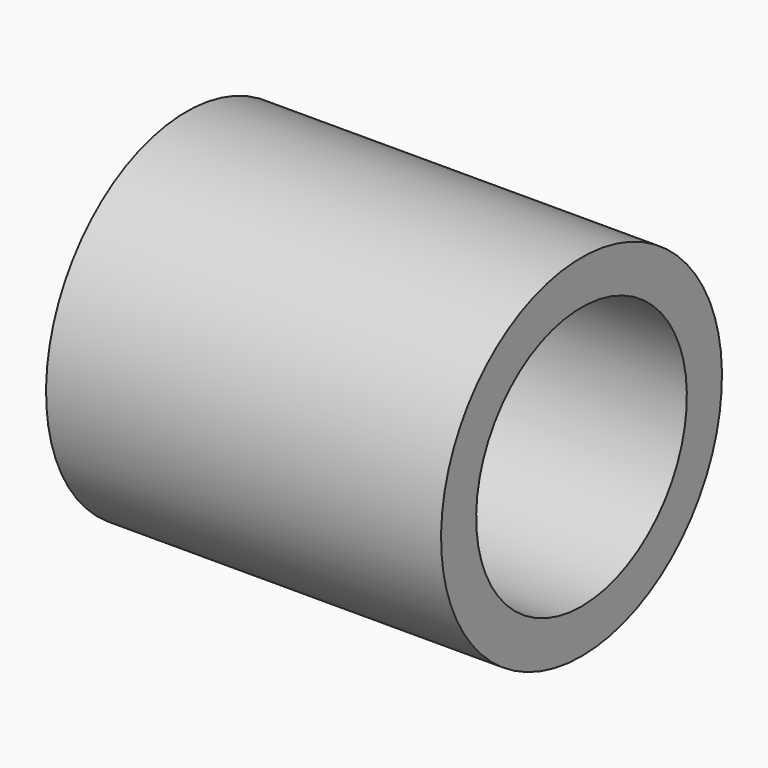
from build123d import *

# Parameters (mm, degrees)
CYLINDER007_R           = 6
CYLINDER007_DEPTH       = 236
CYLINDER007_PITCH_ANGLE = 90
CYLINDER005_R           = 8
CYLINDER005_DEPTH       = 18
CYLINDER005_PITCH_ANGLE = 90


with BuildPart() as connector_bore:
    # Cylinder007 → Cylinder007 (new body)
    with BuildSketch(Plane.XY):
        Circle(CYLINDER007_R)
    extrude(amount=CYLINDER007_DEPTH)


with BuildPart() as connector_bore_1:
    # Cylinder007 pitch: moved
    add(connector_bore.part.rotate(Axis((0, 0, 0), (0, 1, 0)), CYLINDER007_PITCH_ANGLE))


with BuildPart() as connector_bore_2:
    # Cylinder007 placement: moved
    add(connector_bore_1.part.moved(Location((-45, 0, 0))))


with BuildPart() as cut003:
    # Cylinder005 → Cylinder005 (new body)
    with BuildSketch(Plane.XY):
        Circle(CYLINDER005_R)
    extrude(amount=CYLINDER005_DEPTH)


with BuildPart() as cut003_1:
    # Cylinder005 pitch: moved
    add(cut003.part.rotate(Axis((0, 0, 0), (0, 1, 0)), CYLINDER005_PITCH_ANGLE))


with BuildPart() as cut003_2:
    # Cylinder005 placement: moved
    add(cut003_1.part.moved(Location((163, 0, 0))))

    # Cut003: cut connector_bore
    add(connector_bore_2.part, mode=Mode.SUBTRACT)


solid = cut003_2.part
